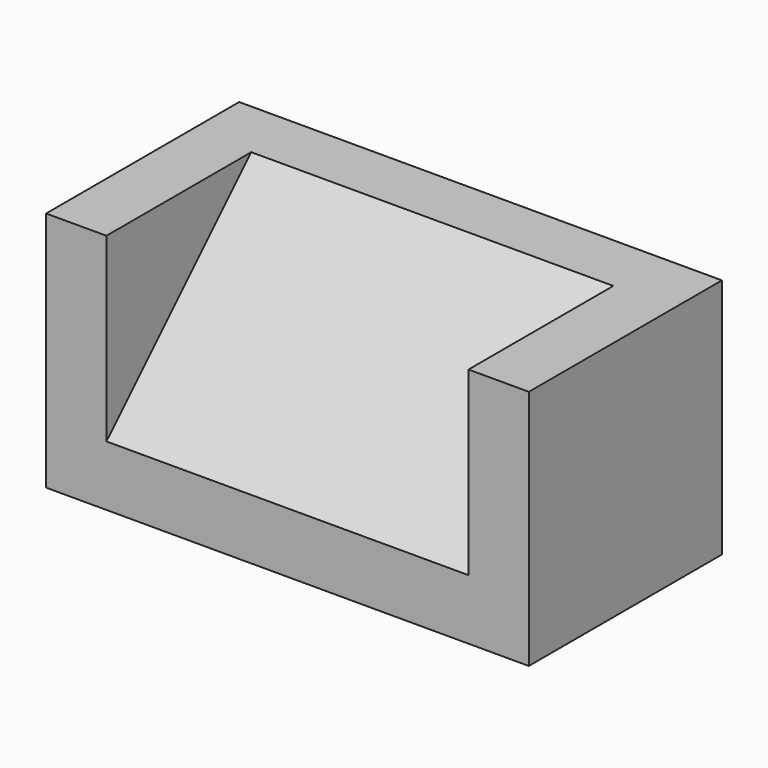
from build123d import *

# Parameters (mm, degrees)
F0_W      = 152.4
F0_H      = 101.6
F1_DEPTH  = 101.6
F2_SIZE   = 76.2
F3_W      = 101.6
F3_H      = 25.4
F4_DEPTH  = 25.4
F5_W      = 25.4
F5_H      = 101.6
F6_DEPTH  = 76.2
F7_W      = 101.6
F7_H      = 25.4
F8_DEPTH  = 25.4
F9_W      = 25.4
F9_H      = 101.6
F10_DEPTH = 76.2


with BuildPart() as f1:
    # F0 (on Front) → F1 (new body)
    with BuildSketch(Plane.XZ):
        with Locations((76.2, 50.8)):
            Rectangle(F0_W, F0_H)
    extrude(amount=F1_DEPTH)

    # F2
    f2_edges = [f1.edges().sort_by_distance(p)[0] for p in [
        (76.2, -101.6, 101.6),
    ]]
    chamfer(f2_edges, length=F2_SIZE)

    # F3 (on face) → F4 (join)
    with BuildSketch(Plane.YZ.offset(152.4)):
        with Locations((-50.8, 12.7)):
            Rectangle(F3_W, F3_H)
    extrude(amount=F4_DEPTH)

    # F5 (on face) → F6 (join)
    with BuildSketch(Plane.XY.offset(25.4)):
        with Locations((165.1, -50.8)):
            Rectangle(F5_W, F5_H)
    extrude(amount=F6_DEPTH)

    # F7 (on face) → F8 (join)
    with BuildSketch(Plane(origin=(0, 0, 0), x_dir=(0, -1, 0), z_dir=(-1, 0, 0))):
        with Locations((50.8, 12.7)):
            Rectangle(F7_W, F7_H)
    extrude(amount=F8_DEPTH)

    # F9 (on face) → F10 (join)
    with BuildSketch(Plane.XY.offset(25.4)):
        with Locations((-12.7, -50.8)):
            Rectangle(F9_W, F9_H)
    extrude(amount=F10_DEPTH)


solid = f1.part
